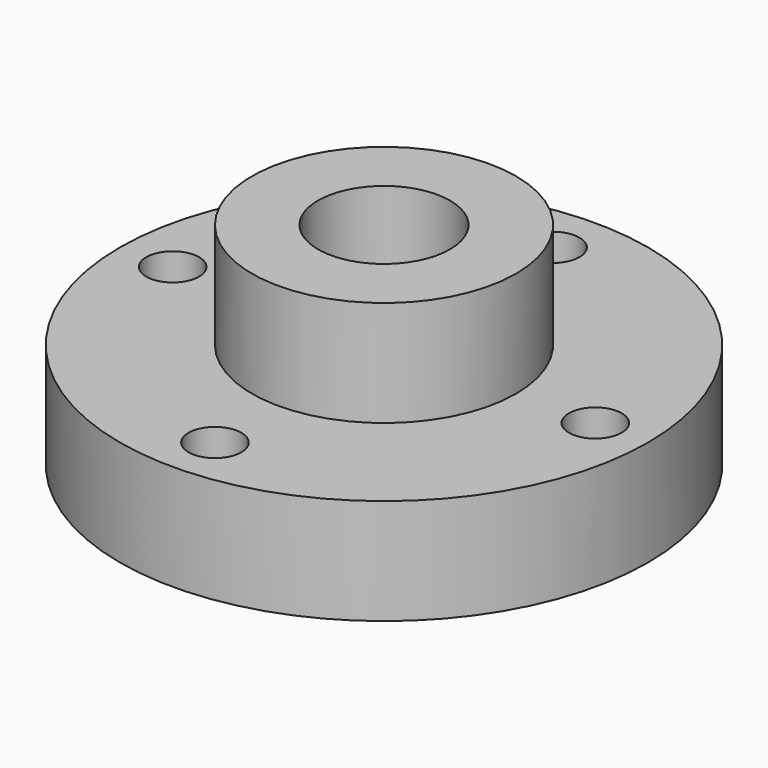
from build123d import *

# Parameters (mm, degrees)
F0_R     = 31.75
F1_DEPTH = 25.4
F2_R     = 31.75
F2_R_2   = 15.875
F3_DEPTH = 12.7
F4_R     = 7.9375
F4_R_2   = 3.175
F5_DEPTH = 25.401


with BuildPart() as f1:
    # F0 (on Top) → F1 (new body)
    with BuildSketch(Plane.XY):
        Circle(F0_R)
    extrude(amount=F1_DEPTH)

    # F2 (on face) → F3 (cut)
    with BuildSketch(Plane.XY.offset(25.4)):
        Circle(F2_R)
        Circle(F2_R_2, mode=Mode.SUBTRACT)
    extrude(amount=-F3_DEPTH, mode=Mode.SUBTRACT)

    # F4 (on face) → F5 (cut, through all)
    with BuildSketch(Plane.XY.offset(25.4)):
        Circle(F4_R)
        with Locations((0, 25.4)):
            Circle(F4_R_2)
        with Locations((0, -25.4)):
            Circle(F4_R_2)
        with Locations((25.4, 0)):
            Circle(F4_R_2)
        with Locations((-25.4, 0)):
            Circle(F4_R_2)
    extrude(amount=-F5_DEPTH, mode=Mode.SUBTRACT)


solid = f1.part
